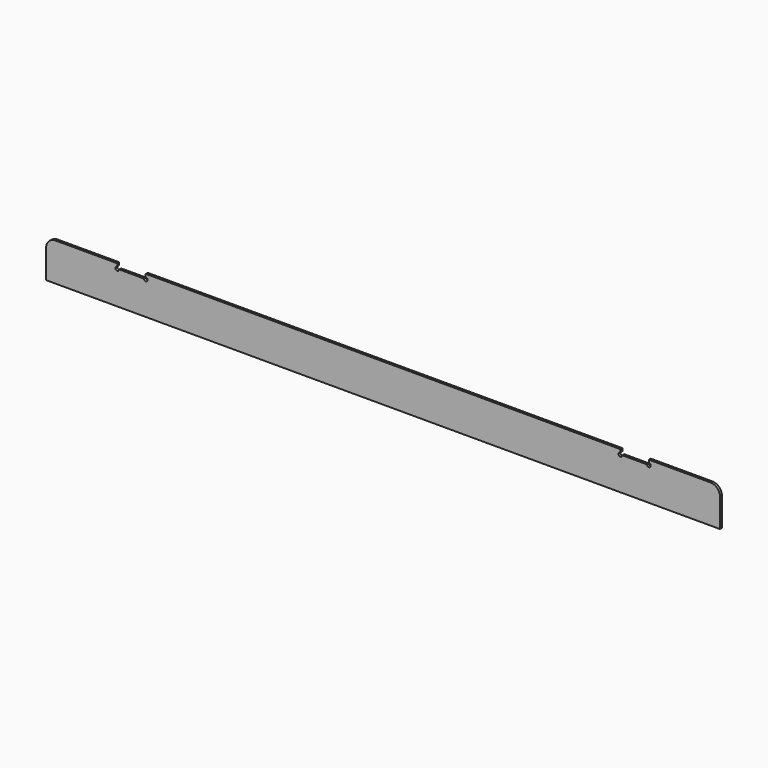
from build123d import *

# Parameters (mm, degrees)
F1_DEPTH = 5


with BuildPart() as f1:
    # F0 (on Front) → F1 (new body)
    with BuildSketch(Plane.XZ):
        with BuildLine():
            Line((-560, 40), (-690, 40))
            ThreePointArc((-690, 40), (-704.142136, 34.142136), (-710, 20))
            Line((-710, 20), (-710, -40))
            Line((-710, -40), (710, -40))
            Line((710, -40), (710, 20))
            ThreePointArc((710, 20), (704.142136, 34.142136), (690, 40))
            Line((690, 40), (560, 40))
            Line((560, 40), (560, 34))
            ThreePointArc((560, 34), (562.828427, 27.171573), (556, 30))
            Line((556, 30), (504, 30))
            ThreePointArc((504, 30), (497.171573, 27.171573), (500, 34))
            Line((500, 34), (500, 40))
            Line((500, 40), (-500, 40))
            Line((-500, 40), (-500, 34))
            ThreePointArc((-500, 34), (-497.171573, 27.171573), (-504, 30))
            Line((-504, 30), (-556, 30))
            ThreePointArc((-556, 30), (-562.828427, 27.171573), (-560, 34))
            Line((-560, 34), (-560, 40))
        make_face()
    extrude(amount=F1_DEPTH)


solid = f1.part
